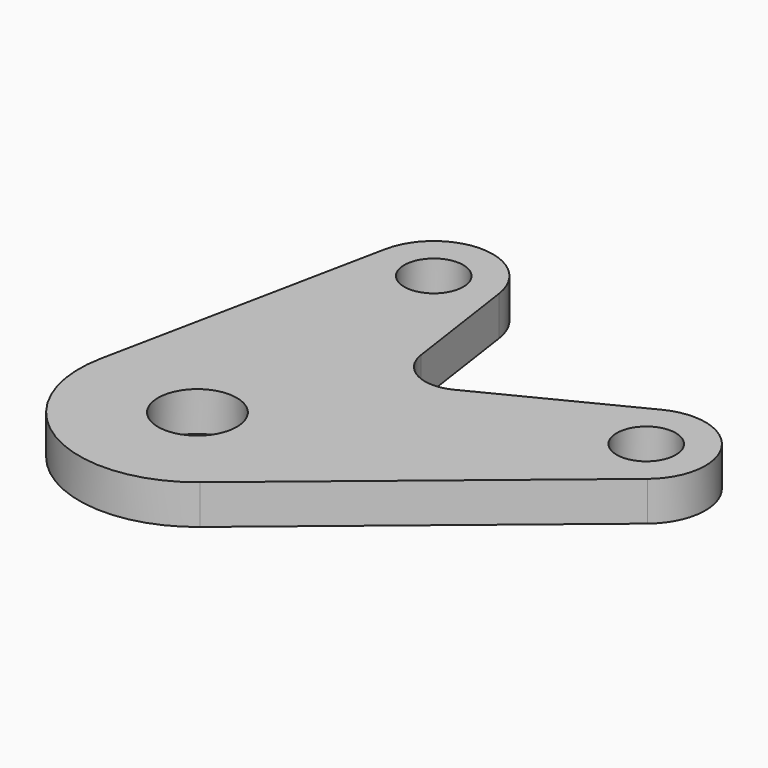
from build123d import *

# Parameters (mm, degrees)
F0_R     = 10
F0_R_2   = 7.5
F1_DEPTH = 10


with BuildPart() as f1:
    # F0 (on Top) → F1 (new body)
    with BuildSketch(Plane.XY):
        with BuildLine():
            Line((-14.696938, 78), (-29.393877, 6))
            ThreePointArc((-29.393877, 6), (-15.438325, -25.722716), (19.120326, -23.117377))
            Line((19.120326, -23.117377), (87.50245, 33.441312))
            ThreePointArc((87.50245, 33.441312), (90.489519, 53.219912), (71.163949, 58.381111))
            Line((71.163949, 58.381111), (33.649374, 39.377723))
            ThreePointArc((33.649374, 39.377723), (24.521542, 39.423913), (19.233854, 46.864331))
            Line((19.233854, 46.864331), (14.844943, 77.1512))
            ThreePointArc((14.844943, 77.1512), (0.430803, 89.993812), (-14.696938, 78))
        make_face()
        Circle(F0_R, mode=Mode.SUBTRACT)
        with Locations((0, 75)):
            Circle(F0_R_2, mode=Mode.SUBTRACT)
        with Locations((77.942286, 45)):
            Circle(F0_R_2, mode=Mode.SUBTRACT)
    extrude(amount=F1_DEPTH)


solid = f1.part
